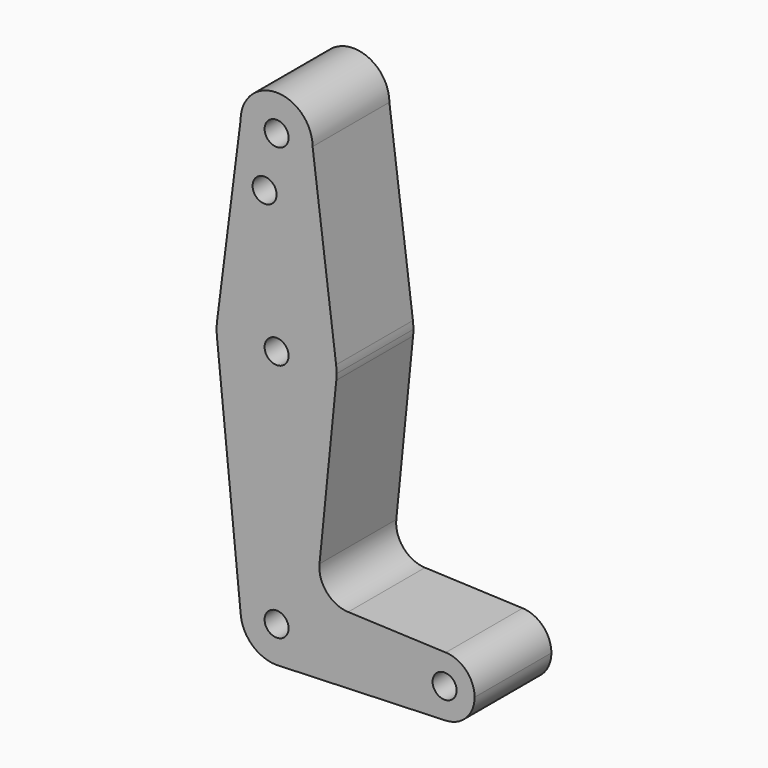
from build123d import *

# Parameters (mm, degrees)
F0_R     = 3.175
F1_DEPTH = 25.4


with BuildPart() as f1:
    # F0 (on Front) → F1 (new body)
    with BuildSketch(Plane.XZ):
        with BuildLine():
            ThreePointArc((-9.525, 0), (0, -9.525), (9.525, 0))
            ThreePointArc((9.525, 0), (0, 9.525), (-9.525, 0))
        make_face()
        Circle(F0_R, mode=Mode.SUBTRACT)
        with BuildLine():
            Line((15.747457, -48.791711), (9.525, 0))
            ThreePointArc((9.525, 0), (0, -9.525), (-9.525, 0))
            Line((-9.525, 0), (-15.747457, -48.791711))
            ThreePointArc((-15.747457, -48.791711), (0, -34.925), (15.747457, -48.791711))
        make_face()
        with Locations((-3.175, -14.2748)):
            Circle(F0_R, mode=Mode.SUBTRACT)
        with BuildLine():
            ThreePointArc((15.875, -50.8), (15.843082, -49.793832), (15.747457, -48.791711))
            ThreePointArc((15.747457, -48.791711), (0, -34.925), (-15.747457, -48.791711))
            ThreePointArc((-15.747457, -48.791711), (-15.873588, -50.588243), (-15.795426, -52.3875))
            ThreePointArc((-15.795426, -52.3875), (0, -66.675), (15.795426, -52.3875))
            ThreePointArc((15.795426, -52.3875), (15.855094, -51.594747), (15.875, -50.8))
        make_face()
        with Locations((0, -50.8)):
            Circle(F0_R, mode=Mode.SUBTRACT)
        with BuildLine():
            ThreePointArc((15.795426, -52.3875), (0, -66.675), (-15.795426, -52.3875))
            Line((-15.795426, -52.3875), (-9.477255, -115.2525))
            ThreePointArc((-9.477255, -115.2525), (-0.476848, -104.786944), (9.525, -114.3))
            ThreePointArc((9.525, -114.3), (6.970557, -120.791299), (0.677344, -123.800886))
            Line((0.677344, -123.800886), (44.732405, -122.232475))
            ThreePointArc((44.732405, -122.232475), (36.512523, -114.280693), (44.770992, -106.368993))
            Line((44.770992, -106.368993), (18.942263, -105.323627))
            ThreePointArc((18.942263, -105.323627), (13.261089, -102.592755), (11.353419, -96.584911))
            Line((11.353419, -96.584911), (15.795426, -52.3875))
        make_face()
        with BuildLine():
            ThreePointArc((9.525, -114.3), (-0.476848, -104.786944), (-9.477255, -115.2525))
            ThreePointArc((-9.477255, -115.2525), (-6.389564, -121.363929), (0, -123.825))
            Line((0, -123.825), (0.677344, -123.800886))
            ThreePointArc((0.677344, -123.800886), (6.970557, -120.791299), (9.525, -114.3))
        make_face()
        with Locations((0, -114.3)):
            Circle(F0_R, mode=Mode.SUBTRACT)
        with BuildLine():
            Line((0.677344, -123.800886), (0, -123.825))
            ThreePointArc((0, -123.825), (0.338886, -123.81897), (0.677344, -123.800886))
        make_face()
        with BuildLine():
            ThreePointArc((52.3875, -114.3), (50.175023, -108.801999), (44.770992, -106.368993))
            ThreePointArc((44.770992, -106.368993), (36.512523, -114.280693), (44.732405, -122.232475))
            ThreePointArc((44.732405, -122.232475), (50.161633, -119.81191), (52.3875, -114.3))
        make_face()
        with Locations((44.45, -114.3)):
            Circle(F0_R, mode=Mode.SUBTRACT)
    extrude(amount=F1_DEPTH)


solid = f1.part
